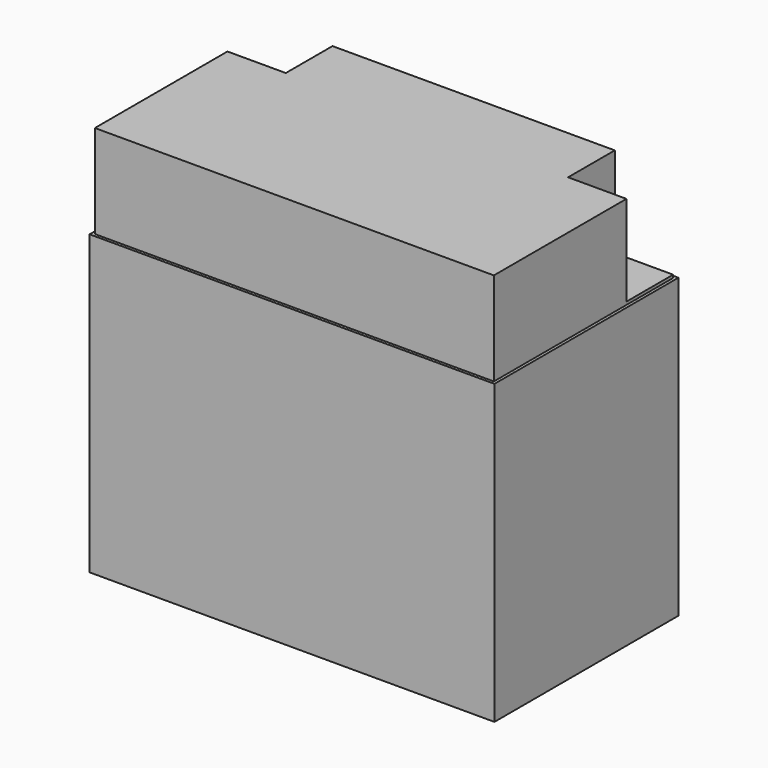
from build123d import *

# Parameters (mm, degrees)
F0_W     = 176.2125
F0_H     = 100.076
F1_DEPTH = 64.77
F2_W     = 173.6725
F2_H     = 97.536
F3_DEPTH = 1.27
F5_DEPTH = 39.37


with BuildPart() as f1:
    # F0 (on Top) → F1 (new body, symmetric)
    with BuildSketch(Plane.XY):
        Rectangle(F0_W, F0_H)
    extrude(amount=F1_DEPTH, both=True)

    # F2 (on face) → F3 (join)
    with BuildSketch(Plane.XY.offset(64.77)):
        Rectangle(F2_W, F2_H)
    extrude(amount=F3_DEPTH)

    # F4 (on face) → F5 (join)
    with BuildSketch(Plane.XY.offset(66.04)):
        Polygon((61.43625, 48.768), (-61.43625, 48.768), (-61.43625, 23.368), (-86.83625, 23.368), (-86.83625, -48.768), (86.83625, -48.768), (86.83625, 23.368), (61.43625, 23.368), align=None)
    extrude(amount=F5_DEPTH)


solid = f1.part
